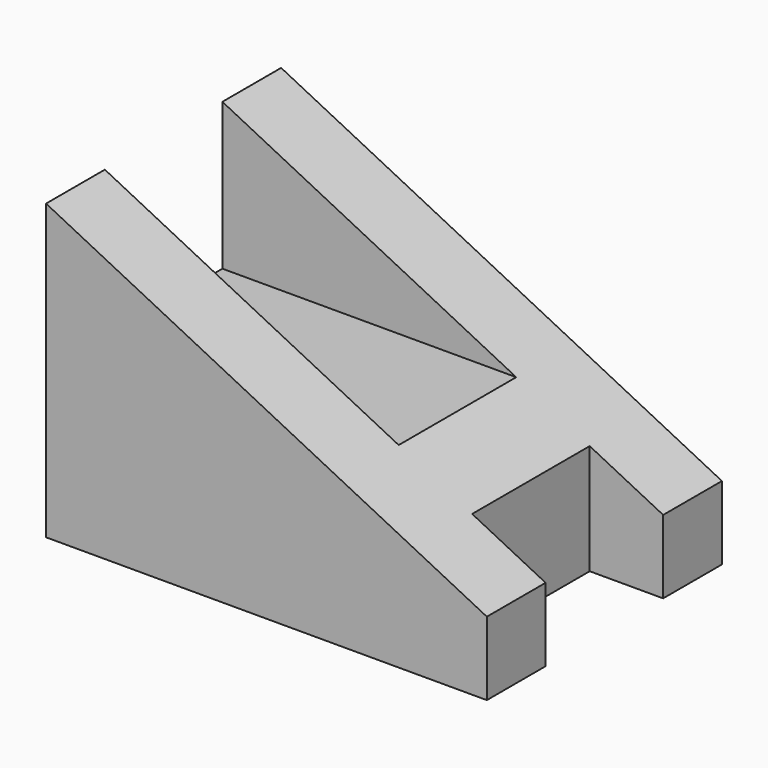
from build123d import *

# Parameters (mm, degrees)
F1_DEPTH = 20
F2_W     = 10
F2_H     = 7.5
F3_DEPTH = 5
F4_W     = 10
F4_H     = 10
F5_DEPTH = 20


with BuildPart() as f1:
    # F0 (on Front) → F1 (new body)
    with BuildSketch(Plane.XZ):
        Polygon((30, 5), (0, 20), (0, 0), (30, 0), align=None)
    extrude(amount=F1_DEPTH)

    # F2 (on face) → F3 (cut)
    with BuildSketch(Plane.YZ.offset(30)):
        with Locations((-10, 3.75)):
            Rectangle(F2_W, F2_H)
    extrude(amount=-F3_DEPTH, mode=Mode.SUBTRACT)

    # F4 (on face) → F5 (cut)
    with BuildSketch(Plane(origin=(0, 0, 0), x_dir=(0, -1, 0), z_dir=(-1, 0, 0))):
        with Locations((10, 15)):
            Rectangle(F4_W, F4_H)
    extrude(amount=-F5_DEPTH, mode=Mode.SUBTRACT)


solid = f1.part
